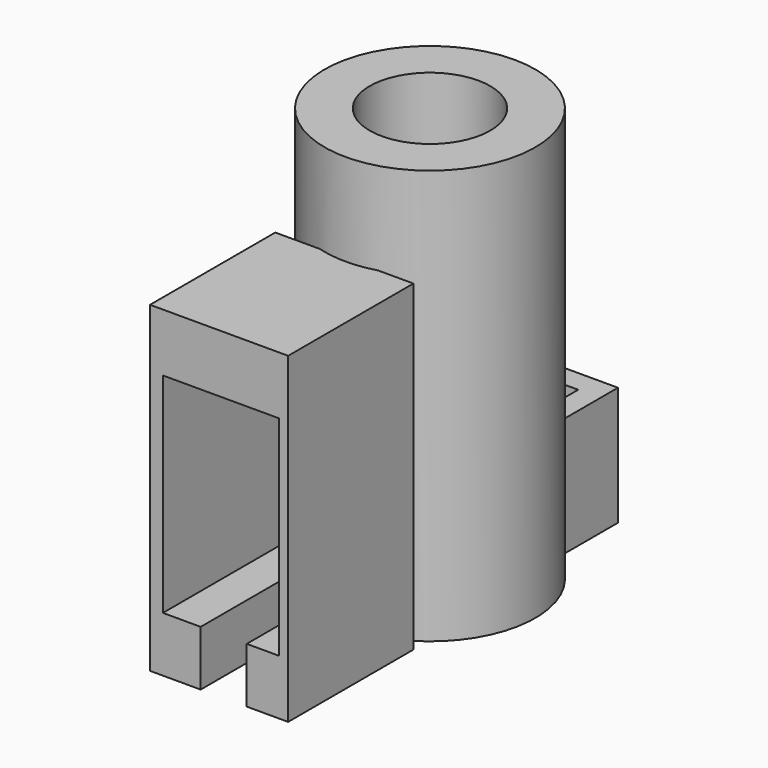
from build123d import *

# Parameters (mm, degrees)
BOX002_W               = 20
BOX002_H               = 5
BOX002_DEPTH           = 10
BOX_W                  = 22.7
BOX_H                  = 12.6
BOX_DEPTH              = 17
BOX001_W               = 35
BOX001_H               = 15
BOX001_DEPTH           = 17
CUT_PLACEMENT_ANGLE    = 90
CYLINDER002_R          = 2.475
CYLINDER002_DEPTH      = 22.9
CYLINDER001_R          = 6.55
CYLINDER001_DEPTH      = 50
CUBE001_W              = 3.45
CUBE001_H              = 7.11
CUBE001_DEPTH          = 11.11
CUBE_W                 = 8.25
CUBE_H                 = 11.91
CUBE_DEPTH             = 12.91
CYLINDER_R             = 11.45
CYLINDER_DEPTH         = 45
FUSION_PLACEMENT_ANGLE = 90


with BuildPart() as cube002:
    # Box002 → Box002 (new body)
    with BuildSketch(Plane(origin=(-30, -2.5, -1), x_dir=(1, 0, 0), z_dir=(0, 0, 1))):
        with Locations((10, 2.5)):
            Rectangle(BOX002_W, BOX002_H)
    extrude(amount=BOX002_DEPTH)


with BuildPart() as cube:
    # Box → Box (new body)
    with BuildSketch(Plane.XY.offset(1)):
        with Locations((11.35, 6.3)):
            Rectangle(BOX_W, BOX_H)
    extrude(amount=BOX_DEPTH)


with BuildPart() as cut001:
    # Box001 → Box001 (new body)
    with BuildSketch(Plane(origin=(-6, -1, 0), x_dir=(1, 0, 0), z_dir=(0, 0, 1))):
        with Locations((17.5, 7.5)):
            Rectangle(BOX001_W, BOX001_H)
    extrude(amount=BOX001_DEPTH)

    # Cut: cut Cube
    add(cube.part, mode=Mode.SUBTRACT)


with BuildPart() as cut001_1:
    # Cut placement: moved
    add(cut001.part.moved(Location((-11, -6, 6))).rotate(Axis((-11, -6, 6), (0, -1, 0)), CUT_PLACEMENT_ANGLE))

    # Cut001: cut Cube002
    add(cube002.part, mode=Mode.SUBTRACT)


with BuildPart() as cylinder002:
    # cylinder002 → cylinder002 (new body)
    with BuildSketch(Plane(origin=(0, 0, 6.825), x_dir=(0, 0, -1), z_dir=(1, 0, 0))):
        Circle(CYLINDER002_R)
    extrude(amount=CYLINDER002_DEPTH)


with BuildPart() as union001:
    # cylinder001 → cylinder001 (new body)
    with BuildSketch(Plane.XY.offset(-1)):
        Circle(CYLINDER001_R)
    extrude(amount=CYLINDER001_DEPTH)

    # union001: union cylinder002
    add(cylinder002.part)


with BuildPart() as cube001:
    # cube001 → cube001 (new body)
    with BuildSketch(Plane(origin=(-1.725, -3.555, -4.6), x_dir=(1, 0, 0), z_dir=(0, 0, 1))):
        with Locations((1.725, 3.555)):
            Rectangle(CUBE001_W, CUBE001_H)
    extrude(amount=CUBE001_DEPTH)


with BuildPart() as difference:
    # cube → cube (new body)
    with BuildSketch(Plane(origin=(-4.125, -5.955, -6.455), x_dir=(1, 0, 0), z_dir=(0, 0, 1))):
        with Locations((4.125, 5.955)):
            Rectangle(CUBE_W, CUBE_H)
    extrude(amount=CUBE_DEPTH)

    # difference: cut cube001
    add(cube001.part, mode=Mode.SUBTRACT)


with BuildPart() as difference_1:
    # difference placement: moved
    add(difference.part.moved(Location((13.95, 0, 6.425))))


with BuildPart() as motor_holder:
    # cylinder → cylinder (new body)
    with BuildSketch(Plane.XY):
        Circle(CYLINDER_R)
    extrude(amount=CYLINDER_DEPTH)

    # union: union difference
    add(difference_1.part)

    # difference001: cut union001
    add(union001.part, mode=Mode.SUBTRACT)

    # Fusion: union Cut001
    add(cut001_1.part)


with BuildPart() as motor_holder_1:
    # Fusion placement: moved
    add(motor_holder.part.moved(Location((-21, 50, 0))).rotate(Axis((-21, 50, 0), (0, 0, 1)), FUSION_PLACEMENT_ANGLE))


solid = motor_holder_1.part
